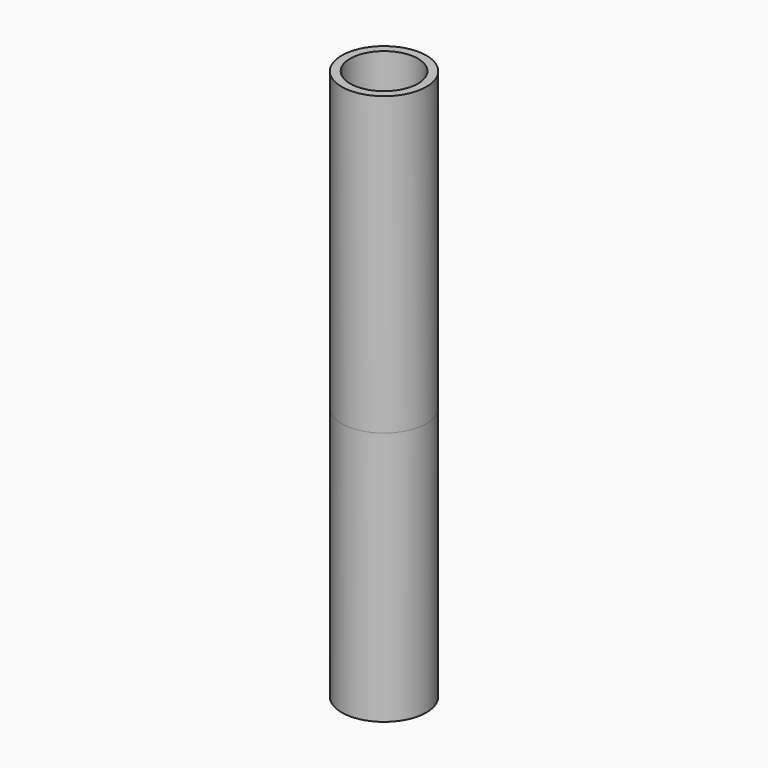
from build123d import *

# Parameters (mm, degrees)
F0_R      = 10
F2_R      = 10
F3_FACE_R = 10
F5_R      = 10
F7_R      = 8
F8_DEPTH  = 130.001
F10_DEPTH = 10.001


with BuildPart() as f3:
    # F0 (on Top) → F3 section 0
    with BuildSketch(Plane.XY):
        Circle(F0_R)
    # F2 (on offset) → F3 section 1
    with BuildSketch(Plane.XY.offset(60)):
        Circle(F2_R)
    loft()

    # F3_face (on face) → F6 section 0
    with BuildSketch(Plane(origin=(0, 0, 0), x_dir=(1, 0, 0), z_dir=(0, 0, -1))):
        Circle(F3_FACE_R)
    # F5 (on offset) → F6 section 1
    with BuildSketch(Plane.XY.offset(130)):
        Circle(F5_R)
    loft()

    # F7 (on face) → F8 (cut, through all)
    with BuildSketch(Plane.XY.offset(130)):
        Circle(F7_R)
    extrude(amount=-F8_DEPTH, mode=Mode.SUBTRACT)

    # F9 (on Right) → F10 (cut, through all)
    with BuildSketch(Plane.YZ):
        with BuildLine():
            ThreePointArc((0, 28.75), (0.883883, 29.116117), (1.25, 30))
            ThreePointArc((1.25, 30), (-0.883883, 30.883883), (0, 28.75))
        make_face()
    extrude(amount=-F10_DEPTH, mode=Mode.SUBTRACT)


solid = f3.part
